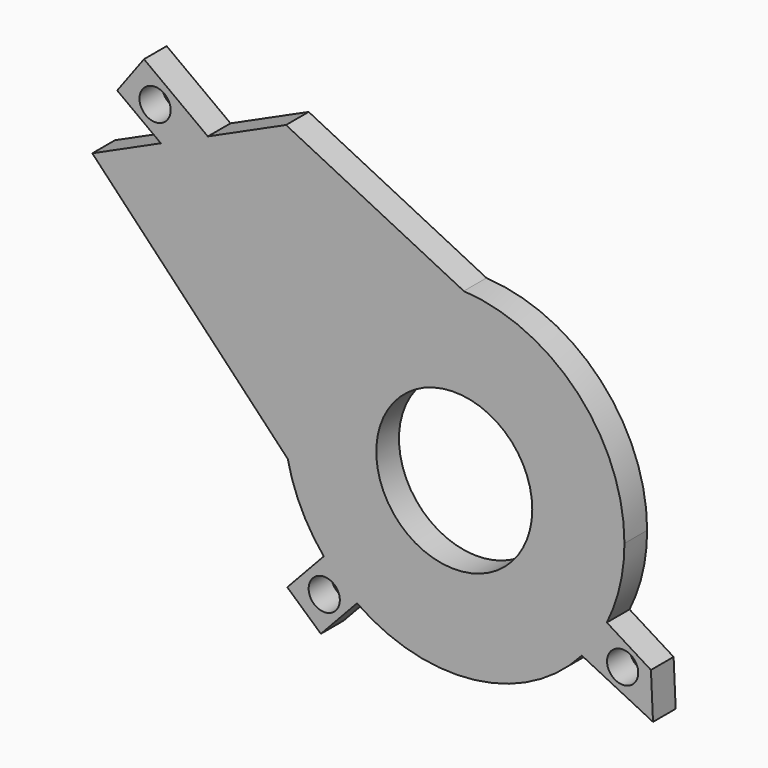
from build123d import *

# Parameters (mm, degrees)
F0_R     = 27.5
F0_R_2   = 5.5
F1_DEPTH = 10
F2_DEPTH = 10


with BuildPart() as f1:
    # F0 (on Front) → F1 (new body)
    with BuildSketch(Plane.XZ):
        with BuildLine():
            ThreePointArc((-28.292017, -39.287383), (-15.112714, 12.187656), (33.771788, 33.012617))
            Line((33.771788, 33.012617), (-28.911684, 64.169998))
            Line((-28.911684, 64.169998), (-56.47545, 51.660288))
            Line((-56.47545, 51.660288), (-73.044068, 44.140684))
            Line((-73.044068, 44.140684), (-97.207149, 33.174363))
            Line((-97.207149, 33.174363), (-28.292017, -39.287383))
        make_face()
        with BuildLine():
            ThreePointArc((84.206134, -53.471508), (88.841371, -40.5401), (90.413927, -26.893349))
            ThreePointArc((90.413927, -26.893349), (74.011357, 14.328783), (33.771788, 33.012617))
            ThreePointArc((33.771788, 33.012617), (-15.112714, 12.187656), (-28.292017, -39.287383))
            ThreePointArc((-28.292017, -39.287383), (-23.551647, -53.117703), (-15.607088, -65.390961))
            ThreePointArc((-15.607088, -65.390961), (-10.100387, -71.149312), (-3.879257, -76.127254))
            ThreePointArc((-3.879257, -76.127254), (37.571166, -86.464935), (75.393257, -66.603044))
            ThreePointArc((75.393257, -66.603044), (80.234238, -60.328908), (84.206134, -53.471508))
        make_face()
        with Locations((30.413927, -26.893349)):
            Circle(F0_R, mode=Mode.SUBTRACT)
        with BuildLine():
            Line((99.749241, -63.148267), (84.206134, -53.471508))
            ThreePointArc((84.206134, -53.471508), (80.234238, -60.328908), (75.393257, -66.603044))
            Line((75.393257, -66.603044), (100.483868, -79.031287))
            Line((100.483868, -79.031287), (99.749241, -63.148267))
        make_face()
        with Locations((89.779897, -65.486279)):
            Circle(F0_R_2, mode=Mode.SUBTRACT)
        Polygon((-73.044068, 44.140684), (-56.47545, 51.660288), (-78.983641, 68.315057), (-88.441153, 55.533643), align=None)
        with Locations((-75.077056, 55.533643)):
            Circle(F0_R_2, mode=Mode.SUBTRACT)
    extrude(amount=F1_DEPTH)

    # F0 (on Front) → F2 (join)
    with BuildSketch(Plane.XZ):
        with BuildLine():
            ThreePointArc((-3.879257, -76.127254), (-10.100387, -71.149312), (-15.607088, -65.390961))
            Line((-15.607088, -65.390961), (-28.465653, -79.151019))
            Line((-28.465653, -79.151019), (-16.624196, -89.76572))
            Line((-16.624196, -89.76572), (-3.879257, -76.127254))
        make_face()
        with Locations((-15.432248, -77.142537)):
            Circle(F0_R_2, mode=Mode.SUBTRACT)
    extrude(amount=F2_DEPTH)


solid = f1.part
